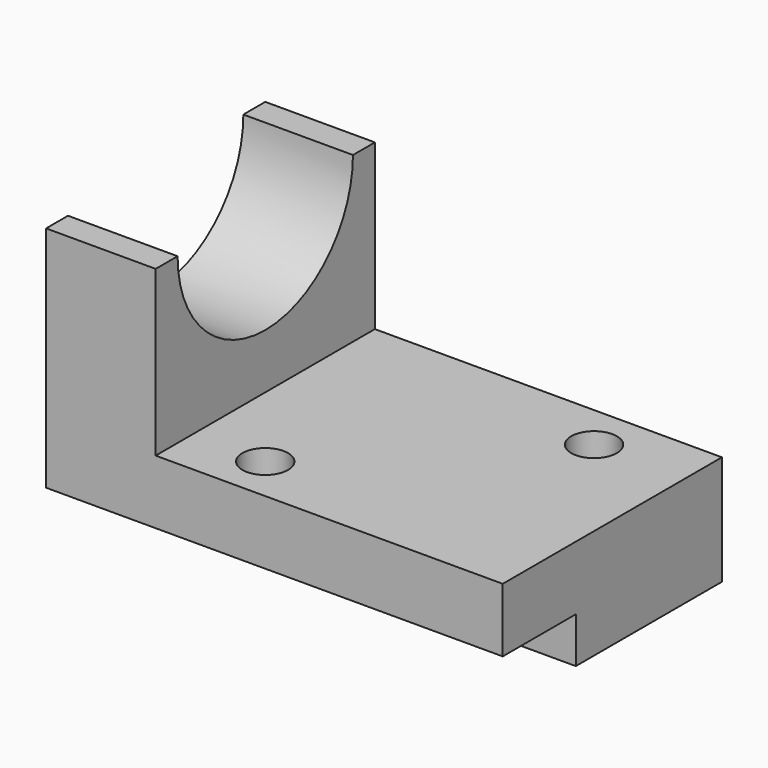
from build123d import *

# Parameters (mm, degrees)
F1_DEPTH = 100
F3_DEPTH = 24
F4_R     = 5
F5_DEPTH = 25


with BuildPart() as f1:
    # F0 (on Right) → F1 (new body)
    with BuildSketch(Plane.YZ):
        Polygon((-40, -10), (0, -10), (0, 14), (-60, 14), (-60, 0), (-40, 0), align=None)
    extrude(amount=-F1_DEPTH)

    # F2 (on face) → F3 (join)
    with BuildSketch(Plane(origin=(-100, 0, 0), x_dir=(0, -1, 0), z_dir=(-1, 0, 0))):
        with BuildLine():
            Line((0, 50), (0, 14))
            Line((0, 14), (60, 14))
            Line((60, 14), (60, 50))
            Line((60, 50), (54, 50))
            ThreePointArc((54, 50), (30, 26), (6, 50))
            Line((6, 50), (0, 50))
        make_face()
    extrude(amount=-F3_DEPTH)

    # F4 (on face) → F5 (cut)
    with BuildSketch(Plane.XY.offset(14)):
        with Locations((-20, -10)):
            Circle(F4_R)
        with Locations((-60, -50)):
            Circle(F4_R)
    extrude(amount=-F5_DEPTH, mode=Mode.SUBTRACT)


solid = f1.part
